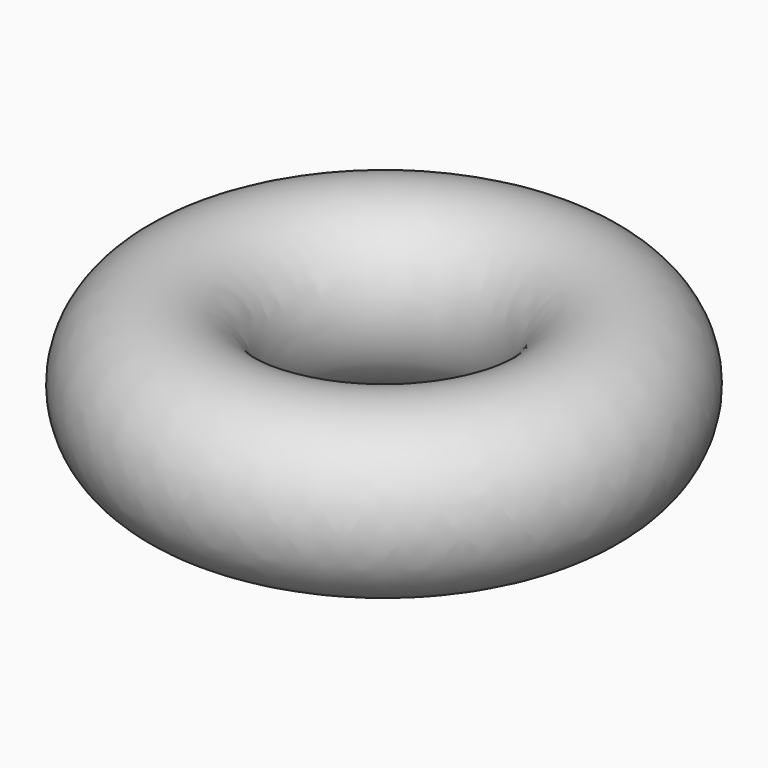
from build123d import *

# Parameters (mm, degrees)
F0_R = 22.78344


with BuildPart() as f3:
    # F3: sweep along a path in F2
    with BuildLine(Plane.XY.offset(34.14167)) as f3_path:
        CenterArc((-12.656792, 8.993142), 49.19543, 0, 360)
    # F0 (on Front) → F3 (sweep)
    with BuildSketch(Plane.XZ):
        with Locations((35.699878, 34.141667)):
            Circle(F0_R)
    sweep(path=f3_path.line)


solid = f3.part
